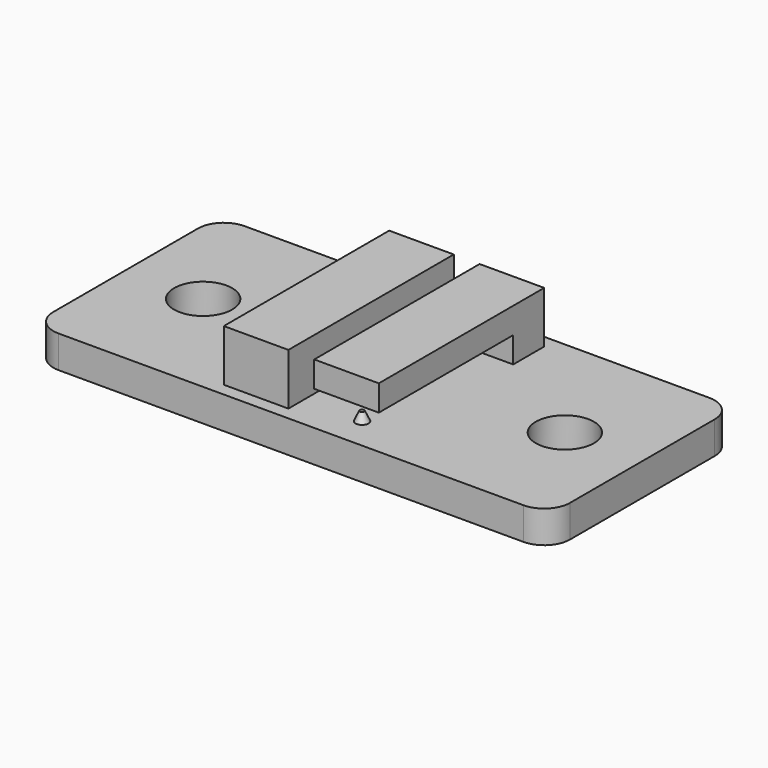
from build123d import *

# Parameters (mm, degrees)
F0_R     = 2.25
F1_DEPTH = 2.5
F2_W     = 5
F2_H     = 3
F3_DEPTH = 2
F4_W     = 5
F4_H     = 13
F4_H_2   = 16
F4_H_3   = 3
F5_DEPTH = 2
F2_R     = 0.5
F6_DEPTH = 0.7
F6_TAPER = 25


with BuildPart() as f1:
    # F0 (on Top) → F1 (new body)
    with BuildSketch(Plane.XY):
        with BuildLine():
            Line((17.8120516539, 10.5652021154), (-18.1879483461, 10.5652021154))
            ThreePointArc((-18.1879483461, 10.5652021154), (-19.6021619085, 9.9794156778), (-20.1879483461, 8.5652021154))
            Line((-20.1879483461, 8.5652021154), (-20.1879483461, -5.4347978846))
            ThreePointArc((-20.1879483461, -5.4347978846), (-19.6021619085, -6.849011447), (-18.1879483461, -7.4347978846))
            Line((-18.1879483461, -7.4347978846), (17.8120516539, -7.4347978846))
            ThreePointArc((17.8120516539, -7.4347978846), (19.2262652162, -6.849011447), (19.8120516539, -5.4347978846))
            Line((19.8120516539, -5.4347978846), (19.8120516539, 8.5652021154))
            ThreePointArc((19.8120516539, 8.5652021154), (19.2262652162, 9.9794156778), (17.8120516539, 10.5652021154))
        make_face()
        with Locations((-14.1879483461, 1.5652021154)):
            Circle(F0_R, mode=Mode.SUBTRACT)
        with Locations((13.8120516539, 1.5652021154)):
            Circle(F0_R, mode=Mode.SUBTRACT)
    extrude(amount=F1_DEPTH)

    # F2 (on face) → F3 (join)
    with BuildSketch(Plane.XY.offset(2.5)):
        with Locations((-3.6879483461, -4.9347978846)):
            Rectangle(F2_W, F2_H)
        with Locations((3.3120516539, 8.0652021154)):
            Rectangle(F2_W, F2_H)
    extrude(amount=F3_DEPTH)

    # F4 (on face) → F5 (join)
    with BuildSketch(Plane.XY.offset(4.5)):
        with Locations((-3.6879483461, 3.0652021154)):
            Rectangle(F4_W, F4_H)
        with Locations((3.3120516539, 1.5652021154)):
            Rectangle(F4_W, F4_H_2)
        with Locations((-3.6879483461, -4.9347978846)):
            Rectangle(F4_W, F4_H_3)
    extrude(amount=F5_DEPTH)

    # F2 (on face) → F6 (join)
    with BuildSketch(Plane.XY.offset(2.5)):
        with Locations((-3.6879483461, 8.0652021154)):
            Circle(F2_R)
        with Locations((3.3120516539, -4.9347978846)):
            Circle(F2_R)
    extrude(amount=F6_DEPTH, taper=F6_TAPER)


solid = f1.part
